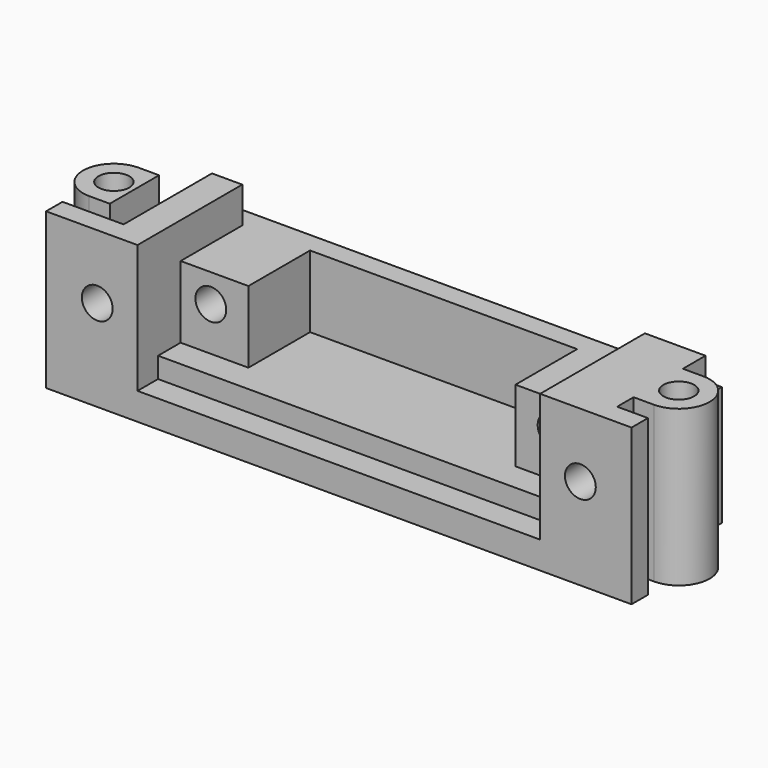
from build123d import *

# Parameters (mm, degrees)
SKETCH_W        = 51
SKETCH_H        = 20
PAD_DEPTH       = 15.15
POCKET_DEPTH    = 10.5
SKETCH002_W     = 39.2
SKETCH002_H     = 2.5
POCKET001_DEPTH = 2
SKETCH011_W     = 51
SKETCH011_H     = 5.25
POCKET002_DEPTH = 15.151
SKETCH012_W     = 3
SKETCH012_H     = 15.15
PAD005_DEPTH    = 2
SKETCH013_R     = 1.5
POCKET003_DEPTH = 14.751
SKETCH014_W     = 39.2
SKETCH014_H     = 3.5
POCKET004_DEPTH = 7.5
SKETCH015_W     = 2
SKETCH015_H     = 3.5
POCKET005_DEPTH = 54.001
SKETCH016_W     = 2.95
SKETCH016_H     = 3.5
POCKET006_DEPTH = 10.75
SKETCH017_R     = 1.5
PAD006_DEPTH    = 15.15


with BuildPart() as part:
    # Sketch → Pad (new body)
    with BuildSketch(Plane.XY):
        Rectangle(SKETCH_W, SKETCH_H)
    extrude(amount=PAD_DEPTH)

    # Sketch001 (on Face6 of Pad) → Pocket (cut)
    with BuildSketch(Plane.XY.offset(15.15)):
        Polygon((-19.6, -10), (19.6, -10), (19.6, -4.75), (13, -4.75), (13, 2.75), (-13, 2.75), (-13, -4.75), (-19.6, -4.75), align=None)
    extrude(amount=-POCKET_DEPTH, mode=Mode.SUBTRACT)

    # Sketch002 (on Face14 of Pocket) → Pocket001 (cut)
    with BuildSketch(Plane.XY.offset(4.65)):
        with Locations((0, -8.75)):
            Rectangle(SKETCH002_W, SKETCH002_H)
    extrude(amount=-POCKET001_DEPTH, mode=Mode.SUBTRACT)

    # Sketch011 (on Face5 of Pocket001) → Pocket002 (cut, through all)
    with BuildSketch(Plane.XY.offset(15.15)):
        with Locations((0, 7.375)):
            Rectangle(SKETCH011_W, SKETCH011_H)
    extrude(amount=-POCKET002_DEPTH, mode=Mode.SUBTRACT)

    # Sketch012 (on Face5 of Pocket002) → Pad005 (join)
    with BuildSketch(Plane.XZ.offset(10)):
        with Locations((-27, 7.575)):
            Rectangle(SKETCH012_W, SKETCH012_H)
        with Locations((27, 7.575)):
            Rectangle(SKETCH012_W, SKETCH012_H)
    extrude(amount=-PAD005_DEPTH)

    # Sketch013 (on Face8 of Pad005) → Pocket003 (cut, through all)
    with BuildSketch(Plane.XZ.offset(10)):
        with Locations((-23.52, 8.9)):
            Circle(SKETCH013_R)
        with Locations((-16.66, 8.9)):
            Circle(SKETCH013_R)
        with Locations((16.66, 8.9)):
            Circle(SKETCH013_R)
        with Locations((23.52, 8.9)):
            Circle(SKETCH013_R)
    extrude(amount=-POCKET003_DEPTH, mode=Mode.SUBTRACT)

    # Sketch014 (on Face20 of Pocket003) → Pocket004 (cut)
    with BuildSketch(Plane.XZ.offset(4.75)):
        with Locations((0, 13.4)):
            Rectangle(SKETCH014_W, SKETCH014_H)
    extrude(amount=-POCKET004_DEPTH, mode=Mode.SUBTRACT)

    # Sketch015 (on Face1 of Pocket004) → Pocket005 (cut, through all)
    with BuildSketch(Plane(origin=(-25.5, 0, 0), x_dir=(0, -1, 0), z_dir=(-1, 0, 0))):
        with Locations((-3.75, 13.4)):
            Rectangle(SKETCH015_W, SKETCH015_H)
    extrude(amount=-POCKET005_DEPTH, mode=Mode.SUBTRACT)

    # Sketch016 (on Face5 of Pocket005) → Pocket006 (cut)
    with BuildSketch(Plane(origin=(0, 2.75, 0), x_dir=(-1, 0, 0), z_dir=(0, 1, 0))):
        with Locations((24.025, 13.4)):
            Rectangle(SKETCH016_W, SKETCH016_H)
    extrude(amount=-POCKET006_DEPTH, mode=Mode.SUBTRACT)

    # Sketch017 (on Face25 of Pocket006) → Pad006 (join)
    with BuildSketch(Plane.XY.offset(15.15)):
        with BuildLine():
            Line((-25.5, 0), (-25.5, -6))
            Line((-27.5, -6), (-25.5, -6))
            ThreePointArc((-27.5, 0), (-30.5, -3), (-27.5, -6))
            Line((-27.5, 0), (-25.5, 0))
        make_face()
        with Locations((-27.5, -3)):
            Circle(SKETCH017_R, mode=Mode.SUBTRACT)
        with BuildLine():
            Line((25.5, 0), (25.5, -6))
            Line((25.5, -6), (27.5, -6))
            ThreePointArc((27.5, -6), (30.5, -3), (27.5, 0))
            Line((25.5, 0), (27.5, 0))
        make_face()
        with Locations((27.5, -3)):
            Circle(SKETCH017_R, mode=Mode.SUBTRACT)
    extrude(amount=-PAD006_DEPTH)


solid = part.part
